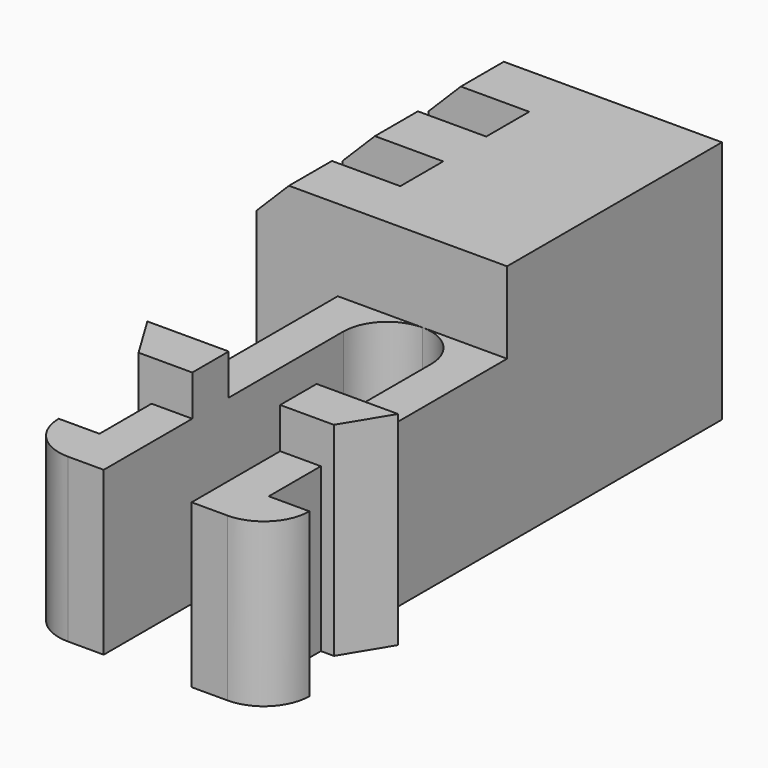
from build123d import *

# Parameters (mm, degrees)
PAD017_DEPTH           = 5
PAD020_DEPTH           = 6.25
SKETCH059_W            = 7.7
SKETCH059_H            = 1.65
PAD029_DEPTH           = 7.5
SKETCH056_W            = 7.7
SKETCH056_H            = 1.65
PAD030_DEPTH           = 4.6
SKETCH058_W            = 7.7
SKETCH058_H            = 1.65
PAD031_DEPTH           = 7.5
SKETCH057_W            = 4.6
SKETCH057_H            = 1.65
PAD032_DEPTH           = 7.5
LINEARPATTERN012_COUNT = 2
LINEARPATTERN012_PITCH = 3.3
CHAMFER002_SIZE        = 1


with BuildPart() as obj1:
    # Sketch034 → Pad017 (new body)
    with BuildSketch(Plane.XY):
        with BuildLine():
            Line((-1.35, -1.8), (-1.35, 6))
            ThreePointArc((0, 7.35), (-0.954594, 6.954594), (-1.35, 6))
            Line((0, 9), (0, 7.35))
            Line((-2.6, 9), (0, 9))
            Line((-2.6, -1.8), (-2.6, 9))
            Line((-3.85, -1.8), (-2.6, -1.8))
            ThreePointArc((-3.85, -1.8), (-3.439949, -2.789949), (-2.45, -3.2))
            Line((-1.35, -3.2), (-2.45, -3.2))
            Line((-1.35, -1.8), (-1.35, -3.2))
        make_face()
    extrude(amount=PAD017_DEPTH)

    # Sketch037 → Pad020 (join)
    with BuildSketch(Plane.XY):
        Polygon((-1.35, 0.2), (-1.35, 1.6), (-2.6, 1.6), (-3.85, 1.6), (-3, 0.2), (-2.6, 0.2), align=None)
    extrude(amount=PAD020_DEPTH)


with BuildPart() as obj2:
    # Mirror001: instance of _obj1
    add(obj1.part.mirror(Plane(origin=(0, 0, 0), x_dir=(0, 1, 0), z_dir=(-1, 0, 0))))


with BuildPart() as body015:
    # Fusion001 base: copy of _obj1
    add(obj1.part)

    # Fusion001: union _obj2)
    add(obj2.part)

    # Sketch059 → Pad029 (new body)
    with BuildSketch(Plane.XY):
        with Locations((-1.25, 8.175)):
            Rectangle(SKETCH059_W, SKETCH059_H)
    extrude(amount=PAD029_DEPTH)

    # Sketch056 → Pad030 (join)
    with BuildSketch(Plane.XY):
        with Locations((-1.25, 9.825)):
            Rectangle(SKETCH056_W, SKETCH056_H)
    pad030 = extrude(amount=PAD030_DEPTH)

    # Sketch058 → Pad031 (join)
    with BuildSketch(Plane.XY):
        with Locations((-1.25, 11.475)):
            Rectangle(SKETCH058_W, SKETCH058_H)
    pad031 = extrude(amount=PAD031_DEPTH)

    # Sketch057 → Pad032 (join)
    with BuildSketch(Plane.XY):
        with Locations((0.3, 9.825)):
            Rectangle(SKETCH057_W, SKETCH057_H)
    pad032 = extrude(amount=PAD032_DEPTH)

    # LinearPattern012: Pad030, Pad031, Pad032 ×2
    with Locations(*[(0, i * LINEARPATTERN012_PITCH, 0) for i in range(1, LINEARPATTERN012_COUNT)]):
        add(pad030)
        add(pad031)
        add(pad032)

    # Chamfer002
    chamfer002_edges = [body015.edges().sort_by_distance(p)[0] for p in [
        (-5.1, 14.775, 7.5),
        (-5.1, 11.475, 7.5),
        (-5.1, 8.175, 7.5),
    ]]
    chamfer(chamfer002_edges, length=CHAMFER002_SIZE)


solid = body015.part
